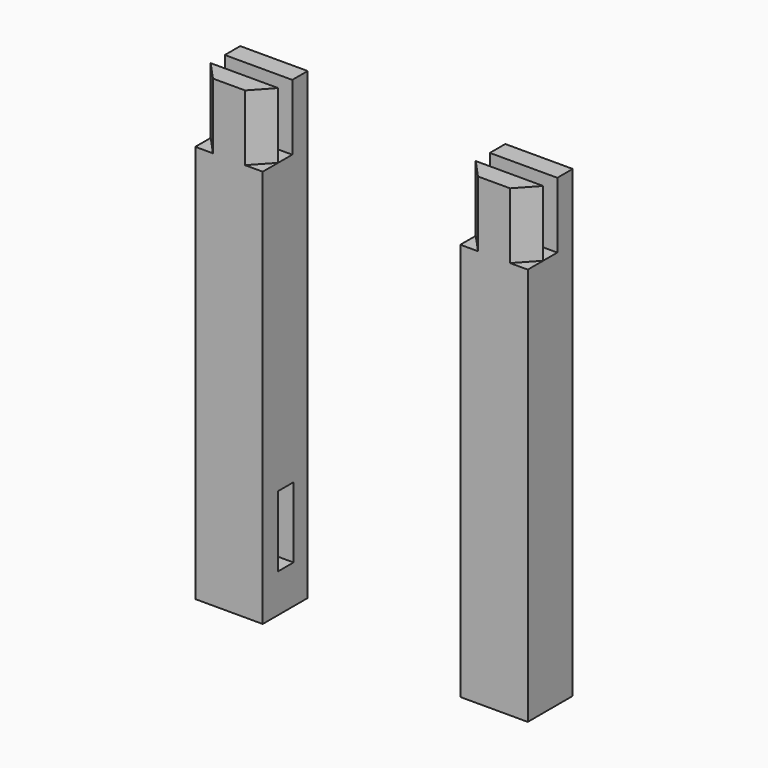
from build123d import *

# Parameters (mm, degrees)
F0_W      = 133.35
F0_H      = 111.125
F1_DEPTH  = 787.4
F2_W      = 133.35
F2_H      = 38.1
F3_DEPTH  = 130.175
F5_W      = 38.1
F5_H      = 139.7
F6_DEPTH  = 95.25
F7_W      = 38.1
F7_H      = 139.7
F8_DEPTH  = 34.925
F10_W     = 38.1
F10_H     = 139.7
F11_DEPTH = 95.25
F9_W      = 38.1
F9_H      = 139.7
F12_DEPTH = 34.925


with BuildPart() as f1:
    # F0 (on Top) → F1 (new body)
    with BuildSketch(Plane.XY):
        Rectangle(F0_W, F0_H)
    extrude(amount=F1_DEPTH)

    # F2 (on face) → F3 (join)
    with BuildSketch(Plane.XY.offset(787.4)):
        with Locations((0, 36.5125)):
            Rectangle(F2_W, F2_H)
        Polygon((31.75, -55.5625), (66.675, -17.4625), (-66.675, -17.4625), (-31.75, -55.5625), align=None)
    extrude(amount=F3_DEPTH)


with BuildPart() as f4_1:
    # F4: copy of F1
    add(f1.part.moved(Location((524.14115, 0, 0))))

    # F10 (on face) → F11 (cut)
    with BuildSketch(Plane(origin=(457.46615, 0, 0), x_dir=(0, -1, 0), z_dir=(-1, 0, 0))):
        with Locations((-1.5875, 146.05)):
            Rectangle(F10_W, F10_H)
    extrude(amount=-F11_DEPTH, mode=Mode.SUBTRACT)

    # F9 (on face) → F12 (cut, through all)
    with BuildSketch(Plane(origin=(0, 55.5625, 0), x_dir=(-1, 0, 0), z_dir=(0, 1, 0))):
        with Locations((-533.66615, 146.05)):
            Rectangle(F9_W, F9_H)
    extrude(amount=-F12_DEPTH, mode=Mode.SUBTRACT)


with BuildPart() as f1_1:
    add(f1.part)

    # F5 (on face) → F6 (cut)
    with BuildSketch(Plane.YZ.offset(66.675)):
        with Locations((1.5875, 146.05)):
            Rectangle(F5_W, F5_H)
    extrude(amount=-F6_DEPTH, mode=Mode.SUBTRACT)

    # F7 (on face) → F8 (cut, through all)
    with BuildSketch(Plane(origin=(0, 55.5625, 0), x_dir=(-1, 0, 0), z_dir=(0, 1, 0))):
        with Locations((9.525, 146.05)):
            Rectangle(F7_W, F7_H)
    extrude(amount=-F8_DEPTH, mode=Mode.SUBTRACT)


solid = Compound([f4_1.part, f1_1.part])
